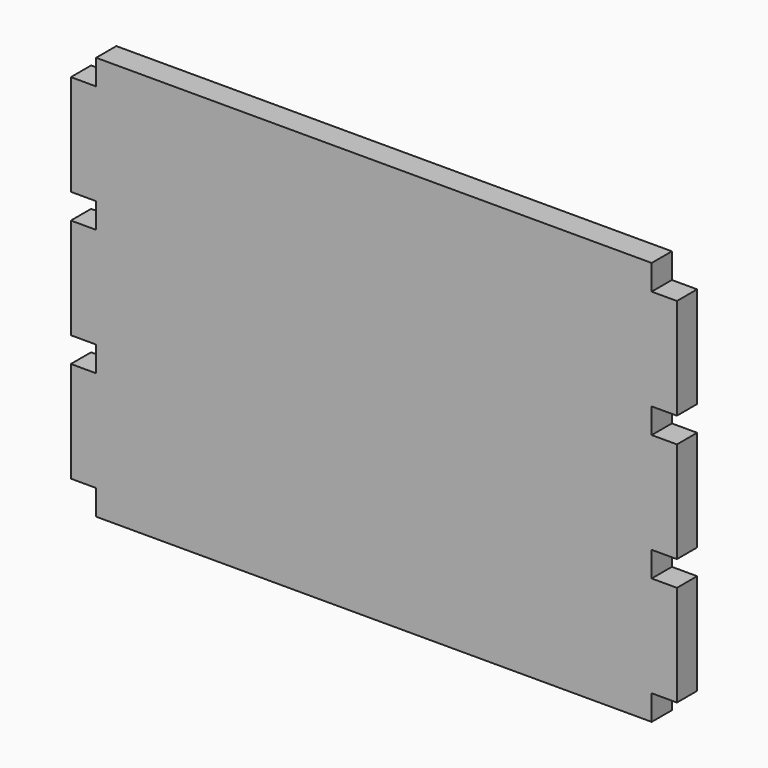
from build123d import *

# Parameters (mm, degrees)
F0_W     = 457.2
F0_H     = 304.8
F1_DEPTH = 9.525
F2_W     = 19.05
F2_H     = 19.05
F3_DEPTH = 19.05
F4_W     = 19.05
F4_H     = 19.05
F5_DEPTH = 19.05


with BuildPart() as f1:
    # F0 (on Front) → F1 (new body, symmetric)
    with BuildSketch(Plane.XZ):
        Rectangle(F0_W, F0_H)
    extrude(amount=F1_DEPTH, both=True)

    # F2 (on face) → F3 (cut)
    with BuildSketch(Plane(origin=(-228.6, 0, 0), x_dir=(0, -1, 0), z_dir=(-1, 0, 0))):
        with Locations((0, 142.875)):
            Rectangle(F2_W, F2_H)
        with Locations((0, 47.625)):
            Rectangle(F2_W, F2_H)
        with Locations((0, -47.625)):
            Rectangle(F2_W, F2_H)
        with Locations((0, -142.875)):
            Rectangle(F2_W, F2_H)
    extrude(amount=-F3_DEPTH, mode=Mode.SUBTRACT)

    # F4 (on face) → F5 (cut)
    with BuildSketch(Plane.YZ.offset(228.6)):
        with Locations((0, 142.875)):
            Rectangle(F4_W, F4_H)
        with Locations((0, 47.625)):
            Rectangle(F4_W, F4_H)
        with Locations((0, -47.625)):
            Rectangle(F4_W, F4_H)
        with Locations((0, -142.875)):
            Rectangle(F4_W, F4_H)
    extrude(amount=-F5_DEPTH, mode=Mode.SUBTRACT)


solid = f1.part
